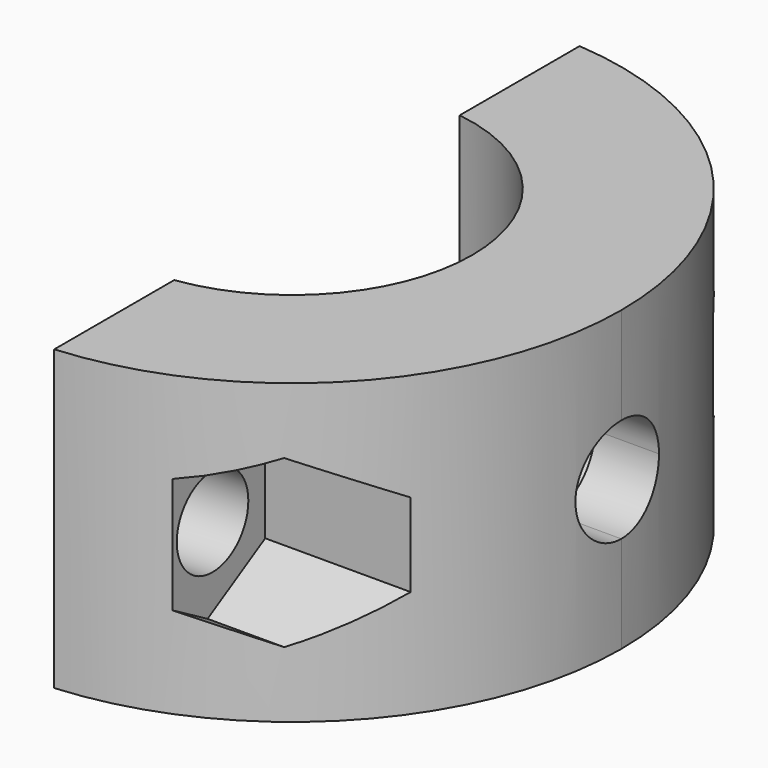
from build123d import *

# Parameters (mm, degrees)
F1_DEPTH  = 12
F3_DEPTH  = 10.5
F4_DEPTH  = 25
F7_DEPTH  = 25
F9_DEPTH  = 25
F12_DEPTH = 8
F13_W     = 1
F13_H     = 20
F13_H_2   = 18.9817659557
F14_DEPTH = 12.5


with BuildPart() as f1:
    # F0 (on Top) → F1 (new body)
    with BuildSketch(Plane.XY):
        with BuildLine():
            Line((11.25, 4), (11.25, 0))
            Line((11.25, 0), (11.25, -4))
            Line((11.25, -4), (10.5148704224, -4))
            ThreePointArc((10.5148704224, -4), (6.3860198872, -9.2618167764), (0, -11.25))
            Line((0, -11.25), (0, -13.25))
            ThreePointArc((0, -13.25), (9.3691648507, -9.3691648507), (13.25, 0))
            ThreePointArc((13.25, 0), (9.3691648507, 9.3691648507), (0, 13.25))
            Line((0, 13.25), (0, 11.25))
            ThreePointArc((0, 11.25), (6.3860198872, 9.2618167764), (10.5148704224, 4))
            Line((10.5148704224, 4), (11.25, 4))
        make_face()
        with BuildLine():
            Line((10.5148704224, -4), (6.0466933112, -4))
            ThreePointArc((6.0466933112, -4), (3.4323825544, -6.3860198872), (0, -7.25))
            Line((0, -7.25), (0, -11.25))
            ThreePointArc((0, -11.25), (6.3860198872, -9.2618167764), (10.5148704224, -4))
        make_face()
        with BuildLine():
            Line((11.25, 0), (7.25, 0))
            ThreePointArc((7.25, 0), (6.9426589469, -2.0885369872), (6.0466933112, -4))
            Line((6.0466933112, -4), (10.5148704224, -4))
            ThreePointArc((10.5148704224, -4), (11.0646914158, -2.0334954817), (11.25, 0))
        make_face()
        with BuildLine():
            ThreePointArc((6.0466933112, 4), (6.9426589469, 2.0885369872), (7.25, 0))
            Line((7.25, 0), (11.25, 0))
            ThreePointArc((11.25, 0), (11.0646914158, 2.0334954817), (10.5148704224, 4))
            Line((10.5148704224, 4), (6.0466933112, 4))
        make_face()
        with BuildLine():
            ThreePointArc((10.5148704224, 4), (11.0646914158, 2.0334954817), (11.25, 0))
            Line((11.25, 0), (11.25, 4))
            Line((11.25, 4), (10.5148704224, 4))
        make_face()
        with BuildLine():
            Line((11.25, -4), (11.25, 0))
            ThreePointArc((11.25, 0), (11.0646914158, -2.0334954817), (10.5148704224, -4))
            Line((10.5148704224, -4), (11.25, -4))
        make_face()
        with BuildLine():
            ThreePointArc((0, 7.25), (3.4323825544, 6.3860198872), (6.0466933112, 4))
            Line((6.0466933112, 4), (10.5148704224, 4))
            ThreePointArc((10.5148704224, 4), (6.3860198872, 9.2618167764), (0, 11.25))
            Line((0, 11.25), (0, 7.25))
        make_face()
    extrude(amount=F1_DEPTH)

    # F2 (on Right) → F3 (cut)
    with BuildSketch(Plane.YZ):
        with BuildLine():
            ThreePointArc((4.2, 6), (-2.969848481, 8.969848481), (0, 1.8))
            ThreePointArc((0, 1.8), (2.969848481, 3.030151519), (4.2, 6))
        make_face()
        with BuildLine():
            ThreePointArc((2.1, 6), (1.4849242405, 4.5150757595), (0, 3.9))
            ThreePointArc((0, 3.9), (-1.4849242405, 7.4849242405), (2.1, 6))
        make_face(mode=Mode.SUBTRACT)
        with BuildLine():
            ThreePointArc((2.1, 6), (-1.4849242405, 7.4849242405), (0, 3.9))
            ThreePointArc((0, 3.9), (1.4849242405, 4.5150757595), (2.1, 6))
        make_face()
    extrude(amount=F3_DEPTH, mode=Mode.SUBTRACT)

    # F2 (on Right) → F4 (cut)
    with BuildSketch(Plane.YZ):
        with BuildLine():
            ThreePointArc((2.1, 6), (-1.4849242405, 7.4849242405), (0, 3.9))
            ThreePointArc((0, 3.9), (1.4849242405, 4.5150757595), (2.1, 6))
        make_face()
    extrude(amount=F4_DEPTH, mode=Mode.SUBTRACT)

    # F6 (on face) → F7 (cut)
    with BuildSketch(Plane(origin=(0, 0, 0), x_dir=(0, -1, 0), z_dir=(-1, 0, 0))):
        with BuildLine():
            ThreePointArc((12.05, 6), (10.25, 7.8), (8.45, 6))
            Line((8.45, 6), (12.05, 6))
        make_face()
        with BuildLine():
            Line((12.05, 6), (8.45, 6))
            ThreePointArc((8.45, 6), (10.25, 4.2), (12.05, 6))
        make_face()
    extrude(amount=-F7_DEPTH, mode=Mode.SUBTRACT)

    # F8 (on face) → F9 (cut)
    with BuildSketch(Plane(origin=(0, 0, 0), x_dir=(0, -1, 0), z_dir=(-1, 0, 0))):
        with BuildLine():
            Line((-12.05, 6), (-8.45, 6))
            ThreePointArc((-8.45, 6), (-10.25, 7.8), (-12.05, 6))
        make_face()
        with BuildLine():
            ThreePointArc((-12.05, 6), (-10.25, 4.2), (-8.45, 6))
            Line((-8.45, 6), (-12.05, 6))
        make_face()
    extrude(amount=-F9_DEPTH, mode=Mode.SUBTRACT)

    # F11 (on offset) → F12 (cut)
    with BuildSketch(Plane.YZ.offset(13)):
        Polygon((-7.6, 4.3256842194), (-7.6, 6), (-7.6, 7.6743157806), (-10.5, 9.3486315613), (-13.4, 7.6743157806), (-13.4, 4.3256842194), (-10.5, 2.6513684387), align=None)
        Polygon((7.6, 7.6743157806), (7.6, 6), (7.6, 4.3256842194), (10.5, 2.6513684387), (13.4, 4.3256842194), (13.4, 7.6743157806), (10.5, 9.3486315613), align=None)
    extrude(amount=-F12_DEPTH, mode=Mode.SUBTRACT)

    # F13 (on Top) → F14 (cut, symmetric)
    with BuildSketch(Plane.XY):
        with Locations((0.5, 10)):
            Rectangle(F13_W, F13_H)
        with Locations((0.5, -9.4908829778)):
            Rectangle(F13_W, F13_H_2)
    extrude(amount=F14_DEPTH, both=True, mode=Mode.SUBTRACT)


solid = f1.part
